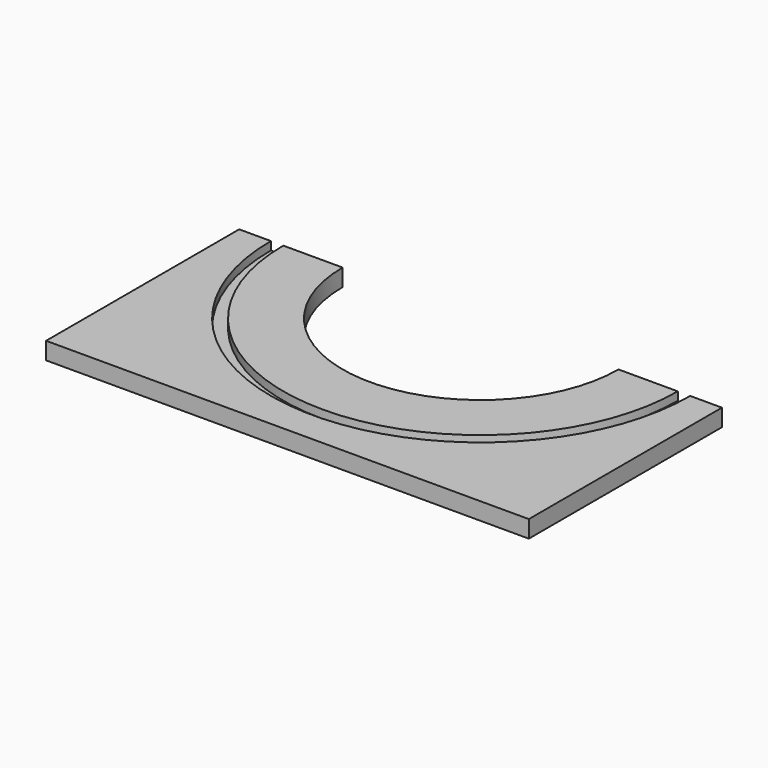
from build123d import *

# Parameters (mm, degrees)
F0_W     = 88.9
F0_H     = 44.45
F1_DEPTH = 3.175
F2_R     = 38.608
F2_R_2   = 36.322
F3_DEPTH = 1.524
F5_DEPTH = 3.176


with BuildPart() as f1:
    # F0 (on Top) → F1 (new body)
    with BuildSketch(Plane.XY):
        with Locations((0, -22.225)):
            Rectangle(F0_W, F0_H)
    extrude(amount=F1_DEPTH)

    # F2 (on face) → F3 (cut)
    with BuildSketch(Plane.XY.offset(3.175)):
        Circle(F2_R)
        Circle(F2_R_2, mode=Mode.SUBTRACT)
        with BuildLine():
            Line((-13.208, 0), (13.208, 0))
            ThreePointArc((13.208, 0), (0, 13.208), (-13.208, 0))
        make_face()
        with BuildLine():
            ThreePointArc((-13.208, 0), (0, -13.208), (13.208, 0))
            Line((13.208, 0), (-13.208, 0))
        make_face()
    extrude(amount=-F3_DEPTH, mode=Mode.SUBTRACT)

    # F4 (on Top) → F5 (cut, through all)
    with BuildSketch(Plane.XY):
        with BuildLine():
            ThreePointArc((25.4, 0), (0, 25.4), (-25.4, 0))
            Line((-25.4, 0), (25.4, 0))
        make_face()
        with BuildLine():
            Line((25.4, 0), (-25.4, 0))
            ThreePointArc((-25.4, 0), (0, -25.4), (25.4, 0))
        make_face()
    extrude(amount=F5_DEPTH, mode=Mode.SUBTRACT)


solid = f1.part
